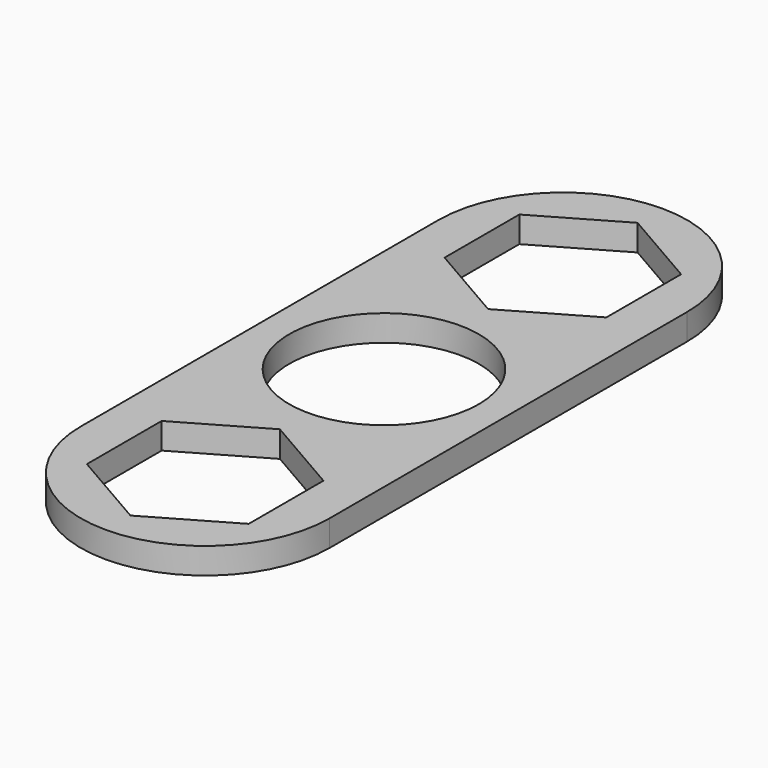
from build123d import *

# Parameters (mm, degrees)
F0_R     = 10.9
F1_DEPTH = 3


with BuildPart() as f1:
    # F0 (on Top) → F1 (new body)
    with BuildSketch(Plane.XY):
        with BuildLine():
            Line((14.3, 0), (14.3, 25.7))
            ThreePointArc((14.3, 25.7), (0, 40), (-14.3, 25.7))
            Line((-14.3, 25.7), (-14.3, 0))
            Line((-14.3, 0), (-14.3, -25.7))
            ThreePointArc((-14.3, -25.7), (0, -40), (14.3, -25.7))
            Line((14.3, -25.7), (14.3, 0))
        make_face()
        Polygon((0, -14.961285), (9.3, -20.330642), (9.3, -31.069358), (0, -36.438715), (-9.3, -31.069358), (-9.3, -20.330642), align=None, mode=Mode.SUBTRACT)
        Circle(F0_R, mode=Mode.SUBTRACT)
        Polygon((0, 14.961285), (-9.3, 20.330642), (-9.3, 31.069358), (0, 36.438715), (9.3, 31.069358), (9.3, 20.330642), align=None, mode=Mode.SUBTRACT)
    extrude(amount=F1_DEPTH)


solid = f1.part
